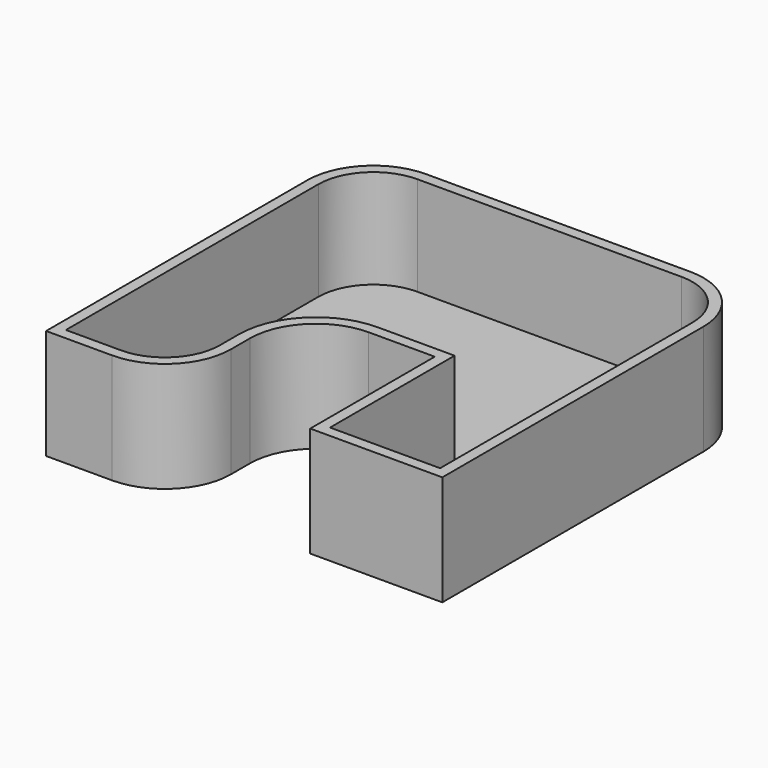
from build123d import *

# Parameters (mm, degrees)
F1_DEPTH = 25
F2_T     = -2.5


with BuildPart() as f1:
    # F0 (on Top) → F1 (new body)
    with BuildSketch(Plane.XY):
        with BuildLine():
            Line((0, 74.154125931), (0, 0))
            Line((0, 0), (15, 0))
            ThreePointArc((15, 0), (25.6066017178, 4.3933982822), (30, 15))
            Line((30, 15), (30, 20.3571386127))
            ThreePointArc((30, 20.3571386127), (34.3933982822, 30.9637403305), (45, 35.3571386127))
            Line((45, 35.3571386127), (60, 35.3571386127))
            Line((60, 35.3571386127), (60, 0))
            Line((60, 0), (90, 0))
            Line((90, 0), (90, 74.154125931))
            ThreePointArc((90, 74.154125931), (85.6066017178, 84.7607276488), (75, 89.154125931))
            Line((75, 89.154125931), (15, 89.154125931))
            ThreePointArc((15, 89.154125931), (4.3933982822, 84.7607276488), (0, 74.154125931))
        make_face()
    extrude(amount=F1_DEPTH)

    # F2
    f2_openings = [f1.faces().sort_by_distance(p)[0] for p in [
        (45.047121, 48.353904, 25),
    ]]
    offset(amount=F2_T, openings=f2_openings, kind=Kind.INTERSECTION)


solid = f1.part
